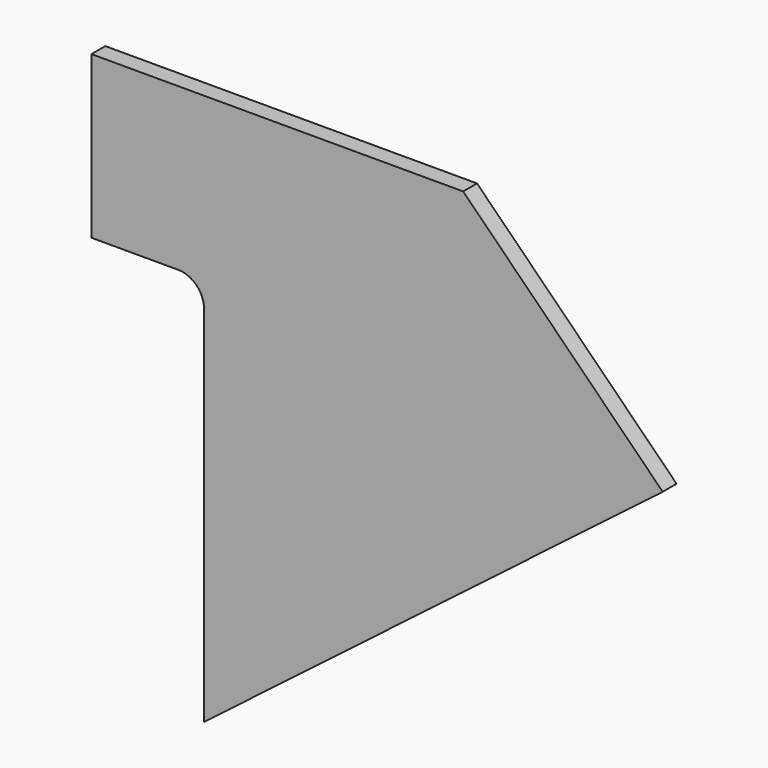
from build123d import *

# Parameters (mm, degrees)
F1_DEPTH = 6.35


with BuildPart() as f1:
    # F0 (on Front) → F1 (new body)
    with BuildSketch(Plane.XZ):
        with BuildLine():
            Line((209.303214, -73.099285), (136.203929, 0))
            Line((136.203929, 0), (0, 0))
            Line((0, 0), (0, -59.238046))
            Line((0, -59.238046), (31.75, -59.238046))
            ThreePointArc((31.75, -59.238046), (38.485192, -62.027854), (41.275, -68.763046))
            Line((41.275, -68.763046), (41.275, -201.969781))
            Line((41.275, -201.969781), (209.303214, -73.099285))
        make_face()
    extrude(amount=F1_DEPTH)


solid = f1.part
